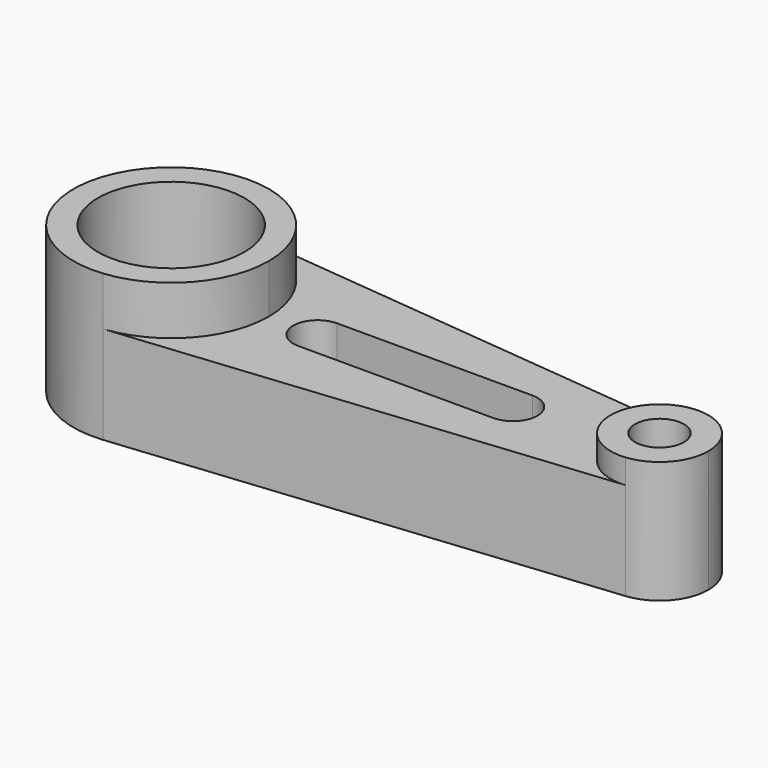
from build123d import *

# Parameters (mm, degrees)
F0_R     = 19.05
F0_R_2   = 6.35
F1_DEPTH = 25.4
F2_DEPTH = 38.1
F3_DEPTH = 31.75


with BuildPart() as f1:
    # F0 (on Top) → F1 (new body)
    with BuildSketch(Plane.XY):
        with BuildLine():
            ThreePointArc((-43.743482, 43.318521), (-27.446338, 35.084678), (-20.883482, 18.04584))
            ThreePointArc((-20.883482, 18.04584), (-27.446338, 1.007002), (-43.743482, -7.226841))
            Line((-43.743482, -7.226841), (81.986518, 5.4095))
            ThreePointArc((81.986518, 5.4095), (68.016518, 18.04584), (81.986518, 30.682181))
            Line((81.986518, 30.682181), (-43.743482, 43.318521))
        make_face()
        with BuildLine():
            ThreePointArc((-8.183482, 11.69584), (-14.533482, 18.04584), (-8.183482, 24.39584))
            Line((-8.183482, 24.39584), (42.616518, 24.39584))
            ThreePointArc((42.616518, 24.39584), (48.966518, 18.04584), (42.616518, 11.69584))
            Line((42.616518, 11.69584), (-8.183482, 11.69584))
        make_face(mode=Mode.SUBTRACT)
        with BuildLine():
            ThreePointArc((-43.743482, -7.226841), (-27.446338, 1.007002), (-20.883482, 18.04584))
            ThreePointArc((-20.883482, 18.04584), (-27.446338, 35.084678), (-43.743482, 43.318521))
            ThreePointArc((-43.743482, 43.318521), (-71.683482, 18.04584), (-43.743482, -7.226841))
        make_face()
        with Locations((-46.283482, 18.04584)):
            Circle(F0_R, mode=Mode.SUBTRACT)
        with BuildLine():
            ThreePointArc((93.416518, 18.04584), (90.13509, 26.565259), (81.986518, 30.682181))
            ThreePointArc((81.986518, 30.682181), (68.016518, 18.04584), (81.986518, 5.4095))
            ThreePointArc((81.986518, 5.4095), (90.13509, 9.526421), (93.416518, 18.04584))
        make_face()
        with Locations((80.716518, 18.04584)):
            Circle(F0_R_2, mode=Mode.SUBTRACT)
    extrude(amount=F1_DEPTH)

    # F0 (on Top) → F2 (join)
    with BuildSketch(Plane.XY):
        with BuildLine():
            ThreePointArc((-43.743482, -7.226841), (-27.446338, 1.007002), (-20.883482, 18.04584))
            ThreePointArc((-20.883482, 18.04584), (-27.446338, 35.084678), (-43.743482, 43.318521))
            ThreePointArc((-43.743482, 43.318521), (-71.683482, 18.04584), (-43.743482, -7.226841))
        make_face()
        with Locations((-46.283482, 18.04584)):
            Circle(F0_R, mode=Mode.SUBTRACT)
    extrude(amount=F2_DEPTH)

    # F0 (on Top) → F3 (join)
    with BuildSketch(Plane.XY):
        with BuildLine():
            ThreePointArc((93.416518, 18.04584), (90.13509, 26.565259), (81.986518, 30.682181))
            ThreePointArc((81.986518, 30.682181), (68.016518, 18.04584), (81.986518, 5.4095))
            ThreePointArc((81.986518, 5.4095), (90.13509, 9.526421), (93.416518, 18.04584))
        make_face()
        with Locations((80.716518, 18.04584)):
            Circle(F0_R_2, mode=Mode.SUBTRACT)
    extrude(amount=F3_DEPTH)


solid = f1.part
